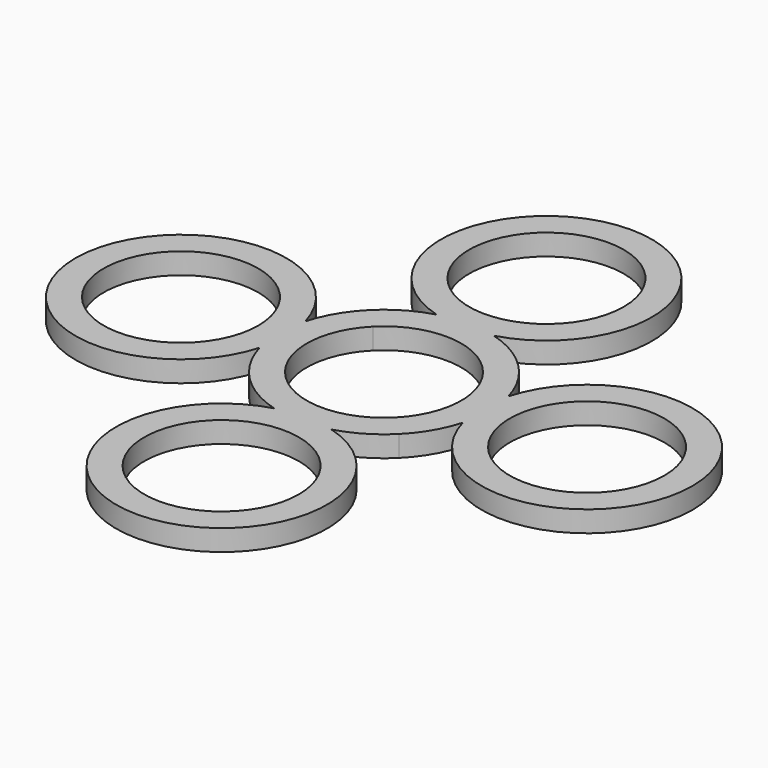
from build123d import *

# Parameters (mm, degrees)
F0_R     = 11
F1_DEPTH = 3


with BuildPart() as f1:
    # F0 (on Top) → F1 (new body)
    with BuildSketch(Plane.XY):
        with BuildLine():
            ThreePointArc((4.059033, 14.440369), (0, 43.880738), (-4.059033, 14.440369))
            ThreePointArc((-4.059033, 14.440369), (-7.579225, 12.944317), (-10.606602, 10.606602))
            ThreePointArc((-10.606602, 10.606602), (-12.944317, 7.579225), (-14.440369, 4.059033))
            ThreePointArc((-14.440369, 4.059033), (-43.880738, 0), (-14.440369, -4.059033))
            ThreePointArc((-14.440369, -4.059033), (-12.944317, -7.579225), (-10.606602, -10.606602))
            ThreePointArc((-10.606602, -10.606602), (-7.579225, -12.944317), (-4.059033, -14.440369))
            ThreePointArc((-4.059033, -14.440369), (0, -43.880738), (4.059033, -14.440369))
            ThreePointArc((4.059033, -14.440369), (7.579225, -12.944317), (10.606602, -10.606602))
            ThreePointArc((10.606602, -10.606602), (12.944317, -7.579225), (14.440369, -4.059033))
            ThreePointArc((14.440369, -4.059033), (43.880738, 0), (14.440369, 4.059033))
            ThreePointArc((14.440369, 4.059033), (12.944317, 7.579225), (10.606602, 10.606602))
            ThreePointArc((10.606602, 10.606602), (7.579225, 12.944317), (4.059033, 14.440369))
        make_face()
        with Locations((0, -28.880738)):
            Circle(F0_R, mode=Mode.SUBTRACT)
        with Locations((-28.880738, 0)):
            Circle(F0_R, mode=Mode.SUBTRACT)
        with BuildLine():
            ThreePointArc((-7.778175, 7.778175), (0, 11), (7.778175, 7.778175))
            ThreePointArc((7.778175, 7.778175), (11, 0), (7.778175, -7.778175))
            ThreePointArc((7.778175, -7.778175), (0, -11), (-7.778175, -7.778175))
            ThreePointArc((-7.778175, -7.778175), (-11, 0), (-7.778175, 7.778175))
        make_face(mode=Mode.SUBTRACT)
        with Locations((28.880738, 0)):
            Circle(F0_R, mode=Mode.SUBTRACT)
        with Locations((0, 28.880738)):
            Circle(F0_R, mode=Mode.SUBTRACT)
    extrude(amount=F1_DEPTH)


solid = f1.part
